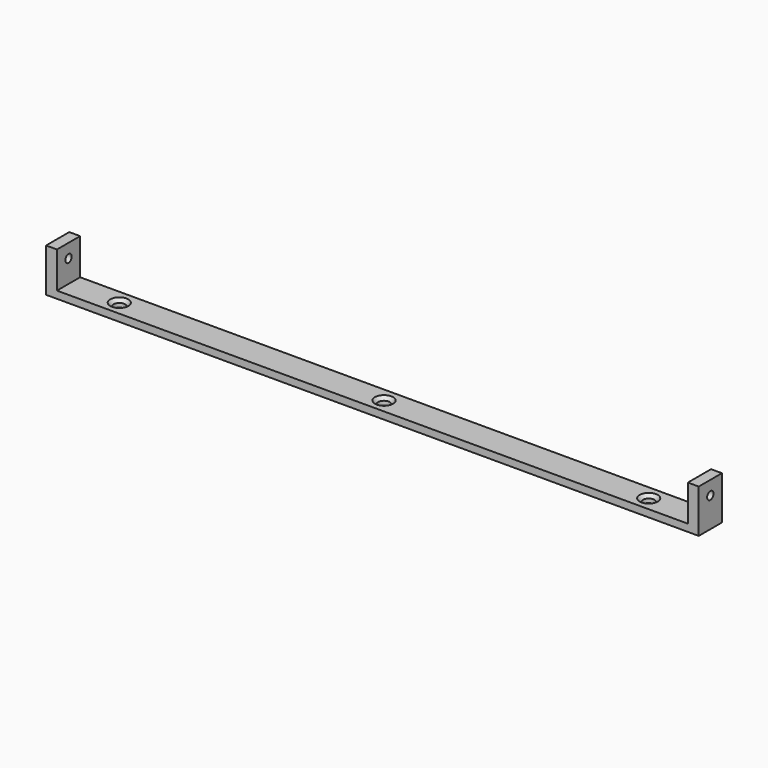
from build123d import *

# Parameters (mm, degrees)
SKETCH_W            = 180.2
SKETCH_H            = 8
PAD_DEPTH           = 2
SKETCH001_W         = 3
SKETCH001_H         = 8
PAD001_DEPTH        = 10
SKETCH002_R         = 1.1
HOLE_DEPTH          = 180.201
HOLE001_D           = 3.2
HOLE001_CSINK_D     = 5
HOLE001_CSINK_ANGLE = 90


with BuildPart() as part:
    # Sketch → Pad (new body)
    with BuildSketch(Plane.XY):
        Rectangle(SKETCH_W, SKETCH_H)
    extrude(amount=PAD_DEPTH)

    # Sketch001 (on Face6 of Pad) → Pad001 (join)
    with BuildSketch(Plane.XY.offset(2)):
        with Locations((-88.6, 0)):
            Rectangle(SKETCH001_W, SKETCH001_H)
        with Locations((88.6, 0)):
            Rectangle(SKETCH001_W, SKETCH001_H)
    extrude(amount=PAD001_DEPTH)

    # Sketch002 → Hole (cut, through all)
    with BuildSketch(Plane.YZ.offset(90.1)):
        with Locations((0, 8.2)):
            Circle(SKETCH002_R)
    extrude(amount=-HOLE_DEPTH, mode=Mode.SUBTRACT)

    # Hole001 (through all)
    with Locations(Plane.XY.offset(2)):
        with Locations((-73.085, 0), (0, 0), (73.085, 0)):
            CounterSinkHole(HOLE001_D / 2, HOLE001_CSINK_D / 2, counter_sink_angle=HOLE001_CSINK_ANGLE)


solid = part.part
